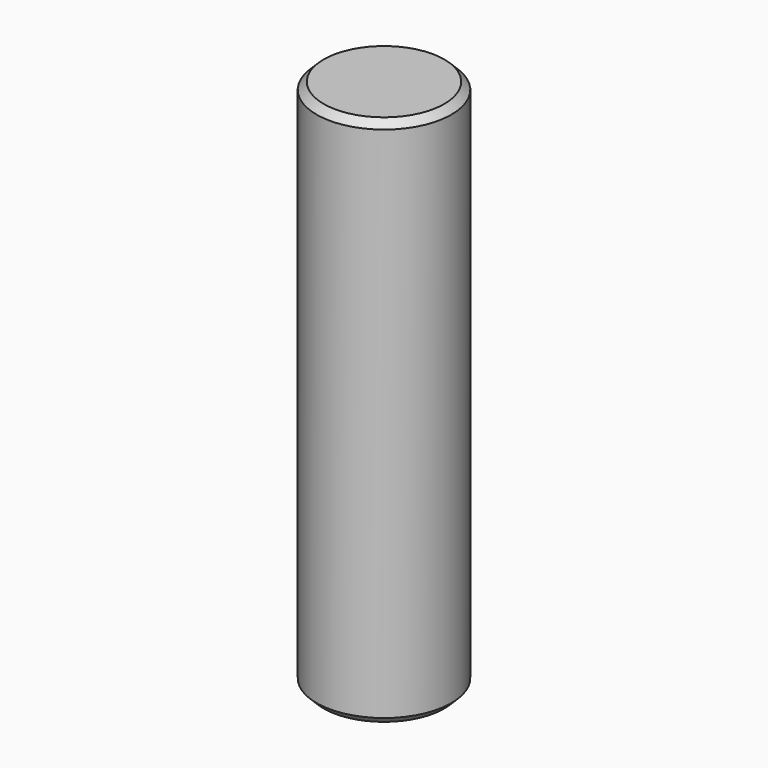
from build123d import *

# Parameters (mm, degrees)
F0_W    = 2.413
F0_H    = 19.05
F2_SIZE = 0.254


with BuildPart() as f1:
    # F0 (on Right) → F1 (revolve)
    with BuildSketch(Plane.YZ):
        with Locations((1.2065, 9.525)):
            Rectangle(F0_W, F0_H)
    revolve(axis=Axis((0, 0, 9.525), (0, 0, 1)))

    # F2
    f2_edges = [f1.edges().sort_by_distance(p)[0] for p in [
        (0, -2.413, 19.05),
        (0, -2.413, 0),
    ]]
    chamfer(f2_edges, length=F2_SIZE)


solid = f1.part
